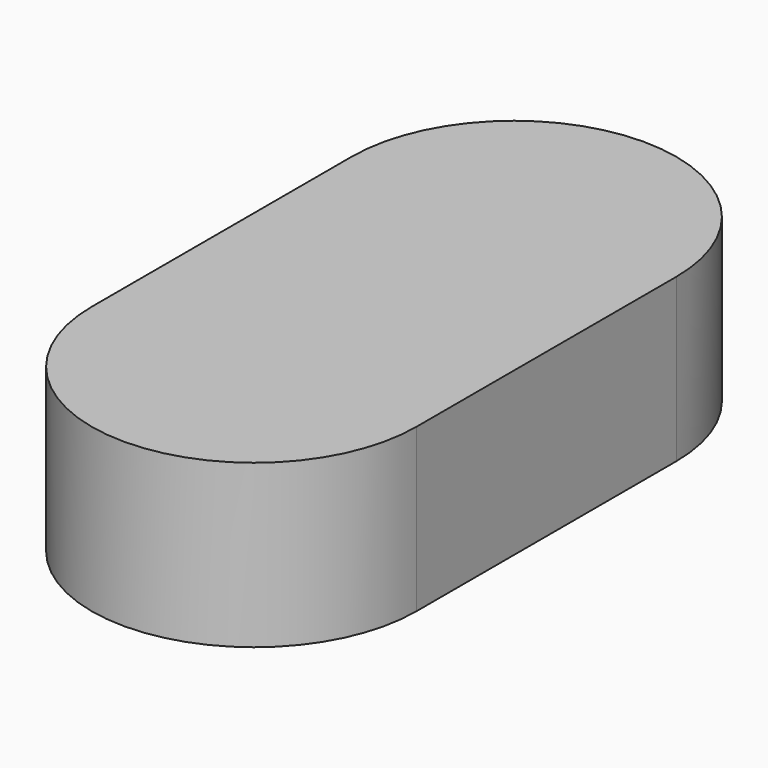
from build123d import *

# Parameters (mm, degrees)
F1_DEPTH = 1.5


with BuildPart() as f1:
    # F0 (on Top) → F1 (new body, symmetric)
    with BuildSketch(Plane.XY):
        with BuildLine():
            ThreePointArc((0, 0), (-2.1213203436, 0.8786796564), (-3, 3))
            Line((-3, 3), (-3, -3))
            ThreePointArc((-3, -3), (-2.1213203436, -0.8786796564), (0, 0))
        make_face()
        with BuildLine():
            Line((3, -3), (3, 3))
            ThreePointArc((3, 3), (2.1213203436, 0.8786796564), (0, 0))
            ThreePointArc((0, 0), (2.1213203436, -0.8786796564), (3, -3))
        make_face()
        with BuildLine():
            ThreePointArc((0, 0), (2.1213203436, 0.8786796564), (3, 3))
            ThreePointArc((3, 3), (0, 6), (-3, 3))
            ThreePointArc((-3, 3), (-2.1213203436, 0.8786796564), (0, 0))
        make_face()
        with BuildLine():
            ThreePointArc((3, -3), (2.1213203436, -0.8786796564), (0, 0))
            ThreePointArc((0, 0), (-2.1213203436, -0.8786796564), (-3, -3))
            ThreePointArc((-3, -3), (0, -6), (3, -3))
        make_face()
    extrude(amount=F1_DEPTH, both=True)


solid = f1.part
